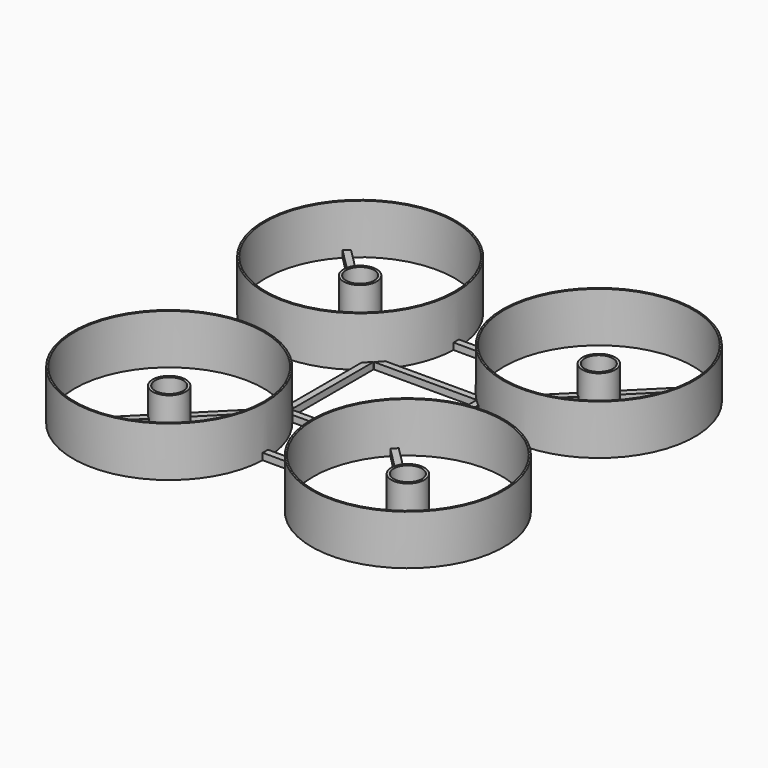
from build123d import *

# Parameters (mm, degrees)
F1_R     = 29
F1_R_2   = 28.5
F2_DEPTH = 15
F3_W     = 7.017247
F3_H     = 1
F3_W_2   = 2
F3_H_2   = 7.017247
F4_DEPTH = 2
F5_R     = 5
F5_R_2   = 4.25
F6_DEPTH = 10


with BuildPart() as f2:
    # F1 (on Top) → F2 (new body)
    with BuildSketch(Plane.XY):
        with Locations((-36, 36)):
            Circle(F1_R)
        with Locations((-36, 36)):
            Circle(F1_R_2, mode=Mode.SUBTRACT)
    extrude(amount=F2_DEPTH)

    # F3 (on Top) → F4 (join)
    with BuildSketch(Plane.XY):
        Polygon((-16.377787, 14.963573), (-15.67068, 15.67068), (-36, 36), (-34.585786, 36), (-35.292893, 36.707107), (-55.622213, 57.036427), (-57.036427, 55.622213), (-36.707107, 35.292893), align=None)
        Polygon((-36, 36), (-15.67068, 15.67068), (-14.963573, 16.377787), (-34.585786, 36), align=None)
        with Locations((-3.508623, 36.5)):
            Rectangle(F3_W, F3_H)
        with Locations((-3.508623, 35.5)):
            Rectangle(F3_W, F3_H)
        with Locations((-36, 3.508623)):
            Rectangle(F3_W_2, F3_H_2)
        Polygon((-17.547779, 13.627795), (-17.547779, 0), (-15.547779, 0), (-15.547779, 15.440169), align=None)
        Polygon((0, 15.547779), (0, 17.547779), (-13.627795, 17.547779), (-15.440169, 15.547779), align=None)
    extrude(amount=F4_DEPTH)

    # F5 (on face) → F6 (join)
    with BuildSketch(Plane(origin=(0, 0, 0), x_dir=(1, 0, 0), z_dir=(0, 0, -1))):
        with Locations((-36, -36)):
            Circle(F5_R)
        with Locations((-36, -36)):
            Circle(F5_R_2, mode=Mode.SUBTRACT)
    extrude(amount=-F6_DEPTH)

    # F8: F2 across plane


with BuildPart() as f2_1:
    add(f2.part)
    add(f2.part.mirror(Plane.XZ))

    # F9: F2 across plane


with BuildPart() as f2_2:
    add(f2_1.part)
    add(f2_1.part.mirror(Plane.YZ))


solid = f2_2.part
